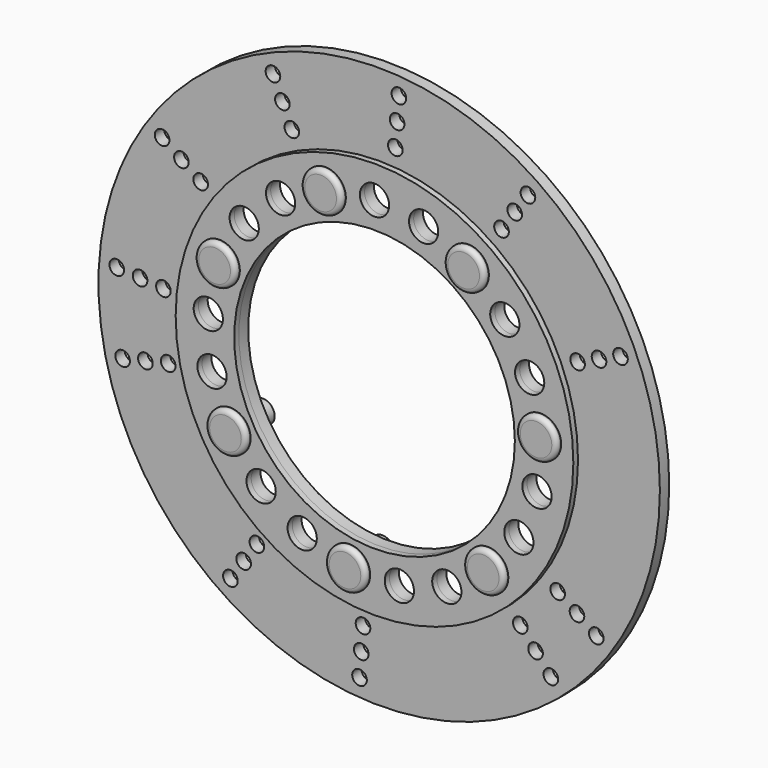
from build123d import *

# Parameters (mm, degrees)
F0_R      = 152.4
F0_R_2    = 76.2
F1_DEPTH  = 6.35
F2_R      = 107.95
F2_R_2    = 76.2
F3_DEPTH  = 3.175
F4_R      = 7.9375
F5_DEPTH  = 9.526
F6_R      = 11.1125
F7_DEPTH  = 3.175
F9_R      = 2.54
F10_R     = 6.35
F11_DEPTH = 25.4
F12_R     = 3.96875
F13_DEPTH = 6.35


with BuildPart() as f1:
    # F0 (on Front) → F1 (new body)
    with BuildSketch(Plane.XZ):
        Circle(F0_R)
        Circle(F0_R_2, mode=Mode.SUBTRACT)
    extrude(amount=F1_DEPTH)


with BuildPart() as f3:
    # F2 (on face) → F3 (new body)
    with BuildSketch(Plane.XZ.offset(6.35)):
        Circle(F2_R)
        Circle(F2_R_2, mode=Mode.SUBTRACT)
    extrude(amount=F3_DEPTH)


with BuildPart() as f5_tool:
    # F4 (on face) → F5 (new body, through all)
    with BuildSketch(Plane.XZ.offset(9.525)):
        with Locations((0, 90.4875)):
            Circle(F4_R)
        with Locations((-26.6716588445, 86.4673942636)):
            Circle(F4_R)
        with Locations((-50.973423754, 74.7642810909)):
            Circle(F4_R)
        with Locations((-70.7459762698, 56.4180334457)):
            Circle(F4_R)
        with Locations((-84.2324383304, 33.0587959424)):
            Circle(F4_R)
        with Locations((-90.2344785974, 6.7621393434)):
            Circle(F4_R)
        with Locations((-88.2187894536, -20.1353630114)):
            Circle(F4_R)
        with Locations((-78.3644737249, -45.24375)):
            Circle(F4_R)
        with Locations((-61.547130609, -66.3320312522)):
            Circle(F4_R)
        with Locations((-39.2610548434, -81.5264204343)):
            Circle(F4_R)
        with Locations((-13.4864620606, -89.476829388)):
            Circle(F4_R)
        with Locations((13.4864620606, -89.476829388)):
            Circle(F4_R)
        with Locations((39.2610548434, -81.5264204343)):
            Circle(F4_R)
        with Locations((61.547130609, -66.3320312522)):
            Circle(F4_R)
        with Locations((78.3644737249, -45.24375)):
            Circle(F4_R)
        with Locations((88.2187894536, -20.1353630114)):
            Circle(F4_R)
        with Locations((90.2344785974, 6.7621393434)):
            Circle(F4_R)
        with Locations((84.2324383304, 33.0587959424)):
            Circle(F4_R)
        with Locations((70.7459762698, 56.4180334457)):
            Circle(F4_R)
        with Locations((50.973423754, 74.7642810909)):
            Circle(F4_R)
        with Locations((26.6716588445, 86.4673942636)):
            Circle(F4_R)
    extrude(amount=-F5_DEPTH)


with BuildPart() as f1_1:
    add(f1.part)

    # F5: cut by f5_tool
    add(f5_tool.part, mode=Mode.SUBTRACT)

    # F12 (on face) → F13 (cut, through all)
    with BuildSketch(Plane.XZ.offset(6.35)):
        with Locations((10.6770621212, 142.4754925223)):
            Circle(F12_R)
        with Locations((9.7279899326, 129.8110042981)):
            Circle(F12_R)
        with Locations((8.7789177441, 117.1465160739)):
            Circle(F12_R)
        with Locations((-47.4228124064, 107.4776836765)):
            Circle(F12_R)
        with Locations((-52.5496029368, 119.0968927226)):
            Circle(F12_R)
        with Locations((-57.6763934672, 130.7161017687)):
            Circle(F12_R)
        with Locations((-96.9045485468, 66.4069581892)):
            Circle(F12_R)
        with Locations((-107.3807159573, 73.5860888042)):
            Circle(F12_R)
        with Locations((-117.8568833678, 80.7652194193)):
            Circle(F12_R)
        with Locations((-142.4754925223, 10.6770621212)):
            Circle(F12_R)
        with Locations((-129.8110042981, 9.7279899326)):
            Circle(F12_R)
        with Locations((-117.1465160739, 8.7789177441)):
            Circle(F12_R)
        with Locations((-139.292825453, -31.792678439)):
            Circle(F12_R)
        with Locations((-126.9112409683, -28.9666625778)):
            Circle(F12_R)
        with Locations((-114.5296564836, -26.1406467165)):
            Circle(F12_R)
        with Locations((-80.7652194193, -117.8568833678)):
            Circle(F12_R)
        with Locations((-73.5860888042, -107.3807159573)):
            Circle(F12_R)
        with Locations((-66.4069581892, -96.9045485468)):
            Circle(F12_R)
        with Locations((-10.6770621212, -142.4754925223)):
            Circle(F12_R)
        with Locations((-9.7279899326, -129.8110042981)):
            Circle(F12_R)
        with Locations((-8.7789177441, -117.1465160739)):
            Circle(F12_R)
        with Locations((93.1737415452, -108.3139857612)):
            Circle(F12_R)
        with Locations((84.8916311856, -98.6860759157)):
            Circle(F12_R)
        with Locations((76.6095208261, -89.0581660703)):
            Circle(F12_R)
        with Locations((117.8568833678, -80.7652194193)):
            Circle(F12_R)
        with Locations((107.3807159573, -73.5860888042)):
            Circle(F12_R)
        with Locations((96.9045485468, -66.4069581892)):
            Circle(F12_R)
        with Locations((107.7149774809, 46.8813315861)):
            Circle(F12_R)
        with Locations((119.3598399113, 51.9495836495)):
            Circle(F12_R)
        with Locations((131.0047023416, 57.0178357129)):
            Circle(F12_R)
        with Locations((66.4069581892, 96.9045485468)):
            Circle(F12_R)
        with Locations((73.5860888042, 107.3807159573)):
            Circle(F12_R)
        with Locations((80.7652194193, 117.8568833678)):
            Circle(F12_R)
    extrude(amount=-F13_DEPTH, mode=Mode.SUBTRACT)


with BuildPart() as f3_1:
    add(f3.part)

    # F5: cut by f5_tool
    add(f5_tool.part, mode=Mode.SUBTRACT)


with BuildPart() as f7:
    # F6 (on face) → F7 (new body)
    with BuildSketch(Plane.XZ.offset(9.525)):
        with Locations((-13.4864620606, -89.476829388)):
            Circle(F6_R)
        with Locations((-78.3644737249, -45.24375)):
            Circle(F6_R)
        with Locations((-84.2324383304, 33.0587959424)):
            Circle(F6_R)
        with Locations((-26.6716588445, 86.4673942636)):
            Circle(F6_R)
        with Locations((50.973423754, 74.7642810909)):
            Circle(F6_R)
        with Locations((90.2344785974, 6.7621393434)):
            Circle(F6_R)
        with Locations((61.547130609, -66.3320312522)):
            Circle(F6_R)
    extrude(amount=F7_DEPTH)

    # F9
    f9_edges = [f7.edges().sort_by_distance(p)[0] for p in [
        (50.434631, -12.7, -66.332031),
        (-24.598962, -12.7, -89.476829),
        (-89.476974, -12.7, -45.24375),
        (-95.344938, -12.7, 33.058796),
        (-37.784159, -12.7, 86.467394),
        (39.860924, -12.7, 74.764281),
        (79.121979, -12.7, 6.762139),
    ]]
    fillet(f9_edges, radius=F9_R)

    # F10 (on face) → F11 (join)
    with BuildSketch(Plane.XZ.offset(12.7)):
        with Locations((-26.6716588445, 86.4673942636)):
            Circle(F10_R)
        with Locations((-84.2324383304, 33.0587959424)):
            Circle(F10_R)
        with Locations((-78.3644737249, -45.24375)):
            Circle(F10_R)
        with Locations((-13.4864620606, -89.476829388)):
            Circle(F10_R)
        with Locations((61.547130609, -66.3320312522)):
            Circle(F10_R)
        with Locations((90.2344785974, 6.7621393434)):
            Circle(F10_R)
        with Locations((50.973423754, 74.7642810909)):
            Circle(F10_R)
    extrude(amount=-F11_DEPTH)


solid = Compound([f1_1.part, f3_1.part, f7.part])
